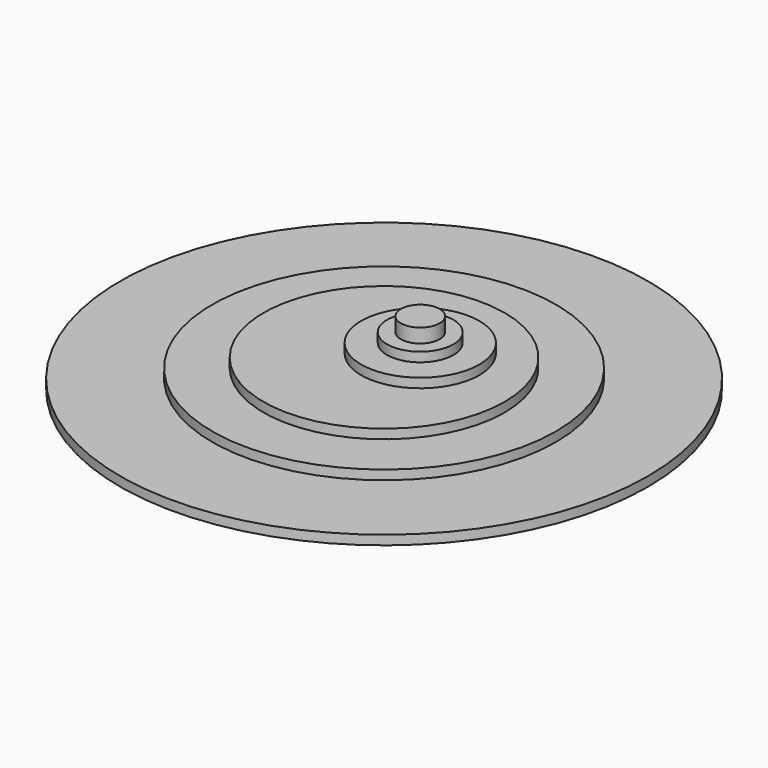
from build123d import *

# Parameters (mm, degrees)
F0_R      = 56.323748
F1_DEPTH  = 2
F2_R      = 36.666383
F3_DEPTH  = 2
F4_R      = 25.730938
F5_DEPTH  = 2
F6_R      = 12.6095
F7_DEPTH  = 2
F8_R      = 7.082523
F9_DEPTH  = 2
F10_R     = 4.140126
F11_DEPTH = 3


with BuildPart() as f1:
    # F0 (on Top) → F1 (new body)
    with BuildSketch(Plane.XY):
        Circle(F0_R)
    extrude(amount=F1_DEPTH)

    # F2 (on face) → F3 (join)
    with BuildSketch(Plane.XY.offset(2)):
        Circle(F2_R)
    extrude(amount=F3_DEPTH)

    # F4 (on face) → F5 (join)
    with BuildSketch(Plane.XY.offset(4)):
        Circle(F4_R)
    extrude(amount=F5_DEPTH)

    # F6 (on face) → F7 (join)
    with BuildSketch(Plane.XY.offset(6)):
        with Locations((3.81, 4.884616)):
            Circle(F6_R)
    extrude(amount=F7_DEPTH)

    # F8 (on face) → F9 (join)
    with BuildSketch(Plane.XY.offset(8)):
        with Locations((3.81, 4.884616)):
            Circle(F8_R)
    extrude(amount=F9_DEPTH)

    # F10 (on face) → F11 (join)
    with BuildSketch(Plane.XY.offset(10)):
        with Locations((3.81, 4.884616)):
            Circle(F10_R)
    extrude(amount=F11_DEPTH)


solid = f1.part
